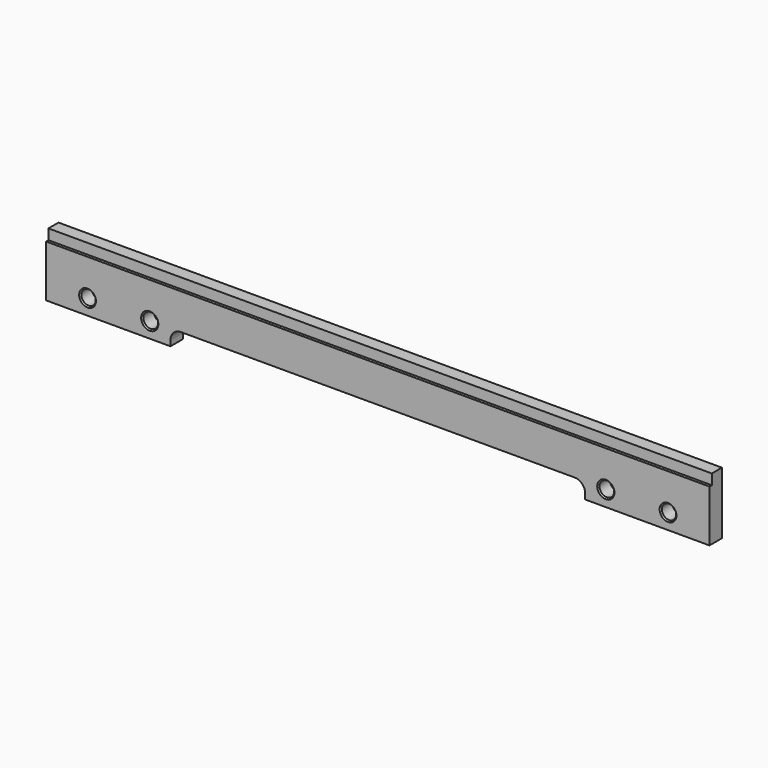
from build123d import *

# Parameters (mm, degrees)
F0_W     = 406.4
F0_H     = 38.1
F1_DEPTH = 9.525
F2_W     = 254
F2_H     = 9.779
F3_DEPTH = 9.526
F4_R     = 6.35
F5_W     = 406.4
F5_H     = 6.35
F6_DEPTH = 1.778
F7_R     = 4.507099
F7_R_2   = 4.388412
F8_DEPTH = 9.526
F9_SIZE  = 0.762


with BuildPart() as f1:
    # F0 (on Front) → F1 (new body)
    with BuildSketch(Plane.XZ):
        Rectangle(F0_W, F0_H)
    extrude(amount=F1_DEPTH)

    # F2 (on face) → F3 (cut, through all)
    with BuildSketch(Plane.XZ.offset(9.525)):
        with Locations((0, -14.1605)):
            Rectangle(F2_W, F2_H)
    extrude(amount=-F3_DEPTH, mode=Mode.SUBTRACT)

    # F4
    f4_edges = [f1.edges().sort_by_distance(p)[0] for p in [
        (-127, -4.7625, -9.271),
        (127, -4.7625, -9.271),
    ]]
    fillet(f4_edges, radius=F4_R)

    # F5 (on face) → F6 (cut)
    with BuildSketch(Plane.XZ.offset(9.525)):
        with Locations((0, 15.875)):
            Rectangle(F5_W, F5_H)
    extrude(amount=-F6_DEPTH, mode=Mode.SUBTRACT)

    # F7 (on face) → F8 (cut, through all)
    with BuildSketch(Plane.XZ.offset(9.525)):
        with Locations((139.7, -9.525)):
            Circle(F7_R)
        with Locations((177.8, -9.525)):
            Circle(F7_R_2)
        with Locations((-177.8, -9.525)):
            Circle(F7_R_2)
        with Locations((-139.7, -9.525)):
            Circle(F7_R)
    extrude(amount=-F8_DEPTH, mode=Mode.SUBTRACT)

    # F9
    f9_edges = [f1.edges().sort_by_distance(p)[0] for p in [
        (-182.188412, -9.525, -9.525),
        (-144.207099, -9.525, -9.525),
        (135.192901, -9.525, -9.525),
        (173.411588, -9.525, -9.525),
        (173.411588, 0, -9.525),
        (135.192901, 0, -9.525),
        (-144.207099, 0, -9.525),
        (-182.188412, 0, -9.525),
    ]]
    chamfer(f9_edges, length=F9_SIZE)


solid = f1.part
